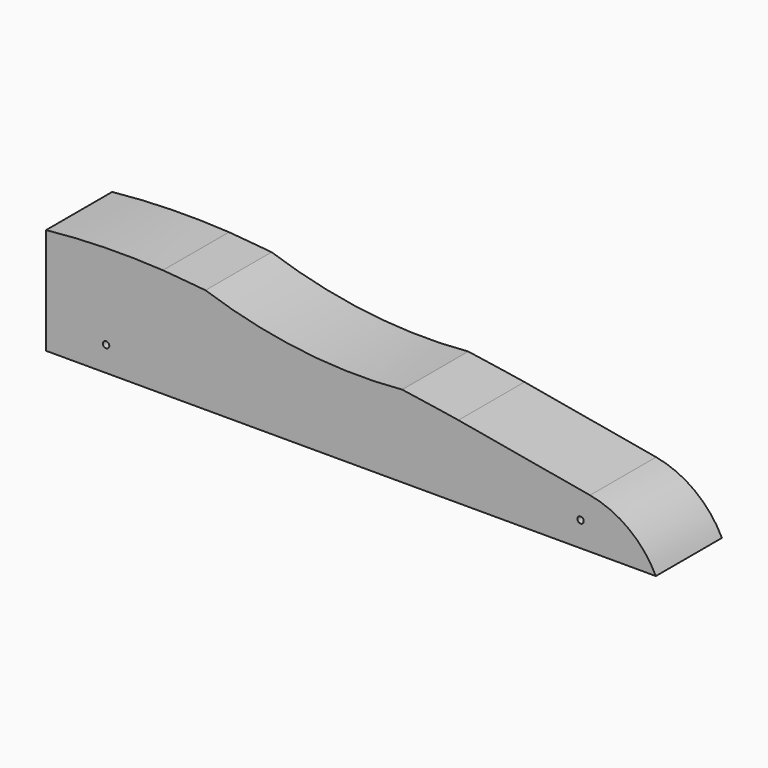
from build123d import *

# Parameters (mm, degrees)
F1_DEPTH = 41.275
F2_R     = 9.525
F3_DEPTH = 53.34
F5_DEPTH = 41.656
F7_DEPTH = 42.164
F8_R     = 1.5875
F9_DEPTH = 41.656


with BuildPart() as f1:
    # F0 (on Front) → F1 (new body)
    with BuildSketch(Plane.XZ):
        Polygon((304.8, 0), (304.8, 19.05), (0, 73.025), (0, 0), align=None)
    extrude(amount=-F1_DEPTH)

    # F2 (on face) → F3 (cut)
    with BuildSketch(Plane(origin=(0, 0, 0), x_dir=(0, -1, 0), z_dir=(-1, 0, 0))):
        with Locations((-20.6375, 36.5125)):
            Circle(F2_R)
    extrude(amount=-F3_DEPTH, mode=Mode.SUBTRACT)

    # F4 (on face) → F5 (cut)
    with BuildSketch(Plane.XZ):
        with BuildLine():
            ThreePointArc((0, 58.4309995174), (103.3439877315, 50.1875204766), (206.112158097, 36.5259720036))
            Line((206.112158097, 36.5259720036), (0, 73.025))
            Line((0, 73.025), (0, 58.4309995174))
        make_face()
        with BuildLine():
            Line((304.8, 19.05), (271.8913928646, 24.8775658469))
            ThreePointArc((271.8913928646, 24.8775658469), (291.3064644297, 16.355353839), (304.8, 0))
            Line((304.8, 0), (304.8, 19.05))
        make_face()
    extrude(amount=-F5_DEPTH, mode=Mode.SUBTRACT)

    # F6 (on face) → F7 (cut)
    with BuildSketch(Plane.XZ):
        with BuildLine():
            ThreePointArc((0, 53.1503558159), (29.1755322562, 54.9802482596), (58.4034793796, 54.4442484998))
            ThreePointArc((58.4034793796, 54.4442484998), (29.216529401, 56.6542842892), (0, 58.4309995174))
            Line((0, 58.4309995174), (0, 53.1503558159))
        make_face()
        with BuildLine():
            ThreePointArc((177.9886173747, 40.8118412298), (128.9105515624, 47.3016400104), (79.6850837991, 52.5578131014))
            ThreePointArc((79.6850837991, 52.5578131014), (128.2234853746, 41.5514956376), (177.9886173747, 40.8118412298))
        make_face()
    extrude(amount=-F7_DEPTH, mode=Mode.SUBTRACT)

    # F8 (on face) → F9 (cut)
    with BuildSketch(Plane.XZ):
        with Locations((30.00802733, 12.426703237)):
            Circle(F8_R)
        with Locations((267.163425684, 12.426703237)):
            Circle(F8_R)
    extrude(amount=-F9_DEPTH, mode=Mode.SUBTRACT)


solid = f1.part
